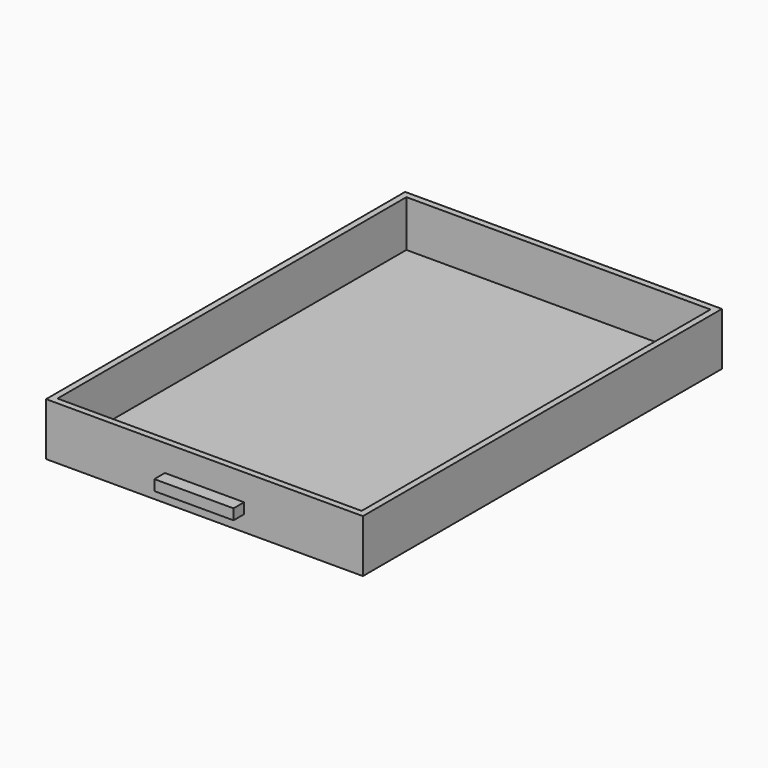
from build123d import *

# Parameters (mm, degrees)
F0_W     = 600
F0_H     = 850
F1_DEPTH = 12
F2_W     = 600
F2_H     = 850
F2_W_2   = 576
F2_H_2   = 826
F3_DEPTH = 88
F4_W     = 150
F4_H     = 20
F5_DEPTH = 25


with BuildPart() as f1:
    # F0 (on Top) → F1 (new body)
    with BuildSketch(Plane.XY):
        with Locations((300, -425)):
            Rectangle(F0_W, F0_H)
    extrude(amount=F1_DEPTH)

    # F2 (on face) → F3 (join)
    with BuildSketch(Plane.XY.offset(12)):
        with Locations((300, -425)):
            Rectangle(F2_W, F2_H)
        with Locations((300, -425)):
            Rectangle(F2_W_2, F2_H_2, mode=Mode.SUBTRACT)
    extrude(amount=F3_DEPTH)

    # F4 (on face) → F5 (join)
    with BuildSketch(Plane.XZ.offset(850)):
        with Locations((300, 40)):
            Rectangle(F4_W, F4_H)
    extrude(amount=F5_DEPTH)


solid = f1.part
